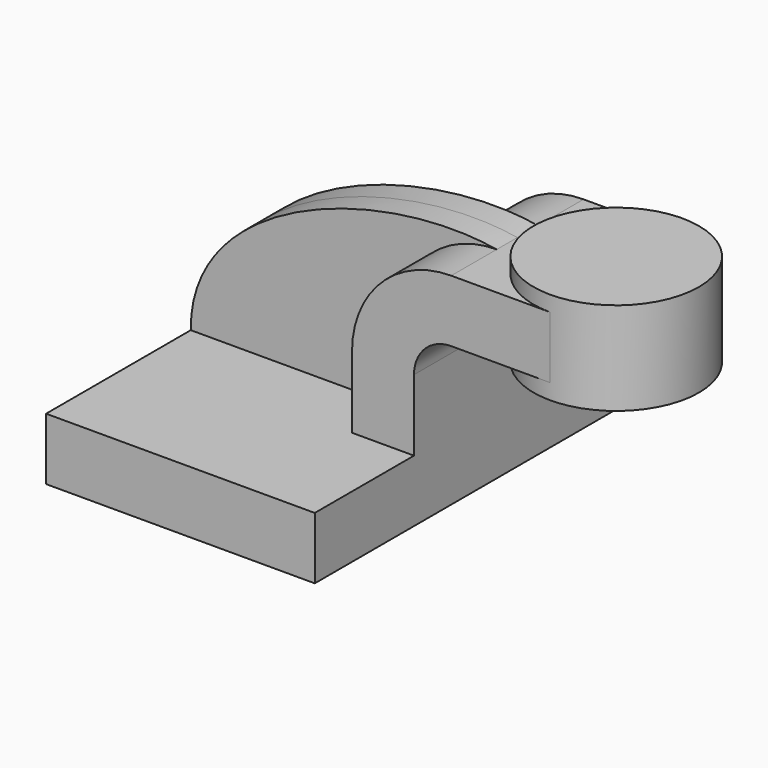
from build123d import *

# Parameters (mm, degrees)
F1_DEPTH = 63.5
F0_W     = 25.4
F0_H     = 19.05
F2_DEPTH = 25.4
F3_DEPTH = 7.9375


with BuildPart() as f1:
    # F0 (on Front) → F1 (new body, symmetric)
    with BuildSketch(Plane.XZ):
        Polygon((-41.275, -9.525), (41.275, -9.525), (41.275, 9.525), (22.225, 9.525), (-41.275, 9.525), align=None)
    extrude(amount=F1_DEPTH, both=True)

    # F0 (on Front) → F2 (join, symmetric)
    with BuildSketch(Plane.XZ):
        with BuildLine():
            Line((22.225, 9.525), (41.275, 9.525))
            Line((41.275, 9.525), (41.275, 31.427365057))
            ThreePointArc((41.275, 31.427365057), (44.6279932249, 39.5222067751), (52.722834943, 42.8752))
            Line((52.722834943, 42.8752), (57.6861744831, 42.8752))
            Line((57.6861744831, 42.8752), (57.6861744831, 61.9252))
            Line((57.6861744831, 61.9252), (52.722834943, 61.9252))
            ThreePointArc((52.722834943, 61.9252), (31.1576090433, 52.9925909567), (22.225, 31.427365057))
            Line((22.225, 31.427365057), (22.225, 9.525))
        make_face()
        with Locations((70.3861744831, 52.4002)):
            Rectangle(F0_W, F0_H)
    extrude(amount=F2_DEPTH, both=True)

    # F0 (on Front) → F3 (join, symmetric)
    with BuildSketch(Plane.XZ):
        with BuildLine():
            add(Edge.make_bspline(
                [(-41.275, 9.525), (-41.7181551456, 48.1705069542), (17.0384701341, 67.8877606988), (52.722834943, 61.9252)],
                knots=[0, 0, 0, 0, 107.6167920634, 107.6167920634, 107.6167920634, 107.6167920634], degree=3))
            Line((-41.275, 9.525), (22.225, 9.525))
            Line((22.225, 9.525), (22.225, 31.427365057))
            ThreePointArc((22.225, 31.427365057), (31.1576090433, 52.9925909567), (52.722834943, 61.9252))
        make_face()
    extrude(amount=F3_DEPTH, both=True)

    # F0 (on Front) → F4 (revolve)
    with BuildSketch(Plane.XZ):
        Polygon((83.0861744831, 66.675), (83.0861744831, 61.9252), (83.0861744831, 42.8752), (83.0861744831, 38.1), (108.4861744831, 38.1), (108.4861744831, 66.675), align=None)
    revolve(axis=Axis((83.0861744831, 0, 50.0126), (0, 0, 1)))


solid = f1.part
